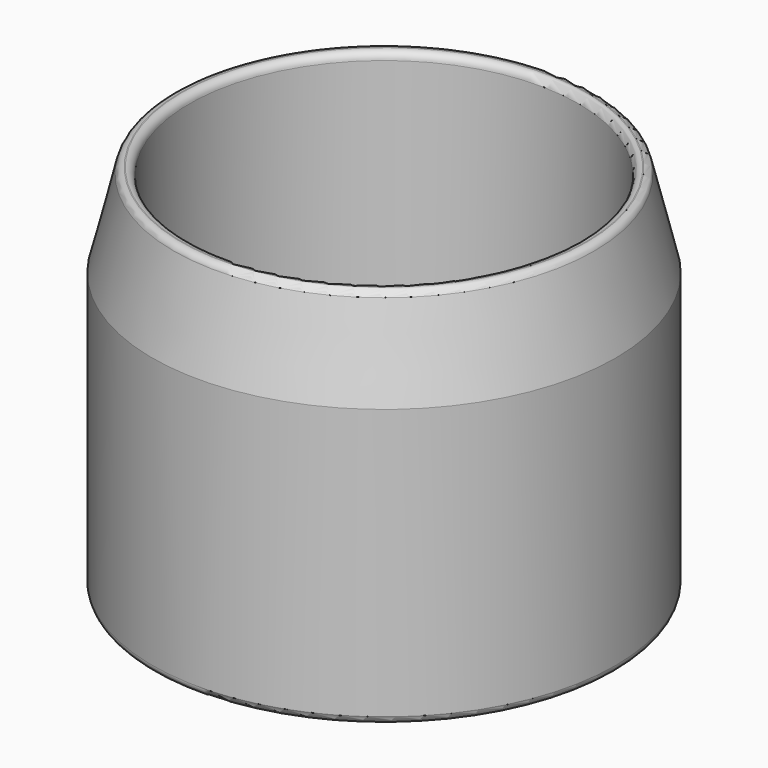
from build123d import *

# Parameters (mm, degrees)
F0_R     = 15.875
F0_R_2   = 13.335
F1_DEPTH = 25.4
F2_SIZE2 = 1.5748
F2_SIZE  = 6.35
F3_R     = 0.508


with BuildPart() as f1:
    # F0 (on Top) → F1 (new body)
    with BuildSketch(Plane.XY):
        Circle(F0_R)
        Circle(F0_R_2, mode=Mode.SUBTRACT)
    extrude(amount=F1_DEPTH)

    # F2
    f2_edges = [f1.edges().sort_by_distance(p)[0] for p in [
        (-15.875, 0, 25.4),
    ]]
    f2_side = f1.faces().sort_by_distance((-15.875, 0, 12.7))[0]
    chamfer(f2_edges, length=F2_SIZE, length2=F2_SIZE2, reference=f2_side)

    # F3
    f3_edges = [f1.edges().sort_by_distance(p)[0] for p in [
        (-14.3002, 0, 25.4),
        (-13.335, 0, 25.4),
        (-15.875, 0, 0),
        (-13.335, 0, 0),
    ]]
    fillet(f3_edges, radius=F3_R)


solid = f1.part
